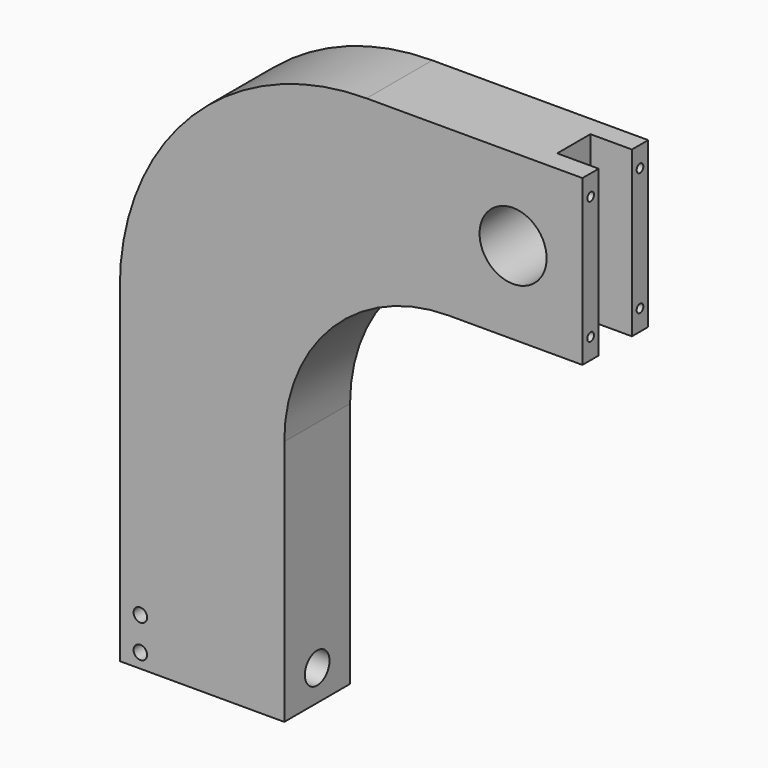
from build123d import *

# Parameters (mm, degrees)
F1_DEPTH  = 50.8
F3_D      = 8.334375
F5_D      = 19.05
F5_DEPTH  = 19.05
F5_TIP    = 5.7231973962
F6_W      = 25.654
F6_H      = 25.654
F7_DEPTH  = 355.601
F8_R      = 20.701
F9_DEPTH  = 50.801
F11_D     = 5.159375
F11_DEPTH = 25.4
F11_TIP   = 1.5500326281


with BuildPart() as f1:
    # F0 (on Front) → F1 (new body)
    with BuildSketch(Plane.XZ):
        with BuildLine():
            Line((0, 203.2), (0, 0))
            Line((0, 0), (101.6, 0))
            Line((101.6, 0), (101.6, 152.4))
            ThreePointArc((101.6, 152.4), (131.3579510314, 224.2420489686), (203.2, 254))
            Line((203.2, 254), (285.75, 254))
            Line((285.75, 254), (285.75, 355.6))
            Line((285.75, 355.6), (152.4, 355.6))
            ThreePointArc((152.4, 355.6), (44.6369265472, 310.9630734528), (0, 203.2))
        make_face()
    extrude(amount=-F1_DEPTH)

    # F3 (through all)
    with Locations(Plane.XZ):
        with Locations((12.7, 29.21), (12.7, 8.89)):
            Hole(F3_D / 2)

    # F5
    with Locations(Plane.YZ.offset(101.6)):
        with Locations((25.4, 19.05)):
            Hole(F5_D / 2, depth=F5_DEPTH)
            with Locations((0, 0, -(F5_DEPTH + F5_TIP / 2))):  # 118° drill point
                Cone(0, F5_D / 2, F5_TIP, mode=Mode.SUBTRACT)

    # F6 (on face) → F7 (cut, through all)
    with BuildSketch(Plane.XY.offset(355.6)):
        with Locations((272.923, 25.4)):
            Rectangle(F6_W, F6_H)
    extrude(amount=-F7_DEPTH, mode=Mode.SUBTRACT)

    # F8 (on face) → F9 (cut, through all)
    with BuildSketch(Plane.XZ):
        with Locations((242.9256, 304.8)):
            Circle(F8_R)
    extrude(amount=-F9_DEPTH, mode=Mode.SUBTRACT)

    # F11
    with Locations(Plane.YZ.offset(285.75)):
        with Locations((6.35, 342.9), (44.45, 342.9), (6.35, 266.7), (44.45, 266.7)):
            Hole(F11_D / 2, depth=F11_DEPTH)
            with Locations((0, 0, -(F11_DEPTH + F11_TIP / 2))):  # 118° drill point
                Cone(0, F11_D / 2, F11_TIP, mode=Mode.SUBTRACT)


solid = f1.part
